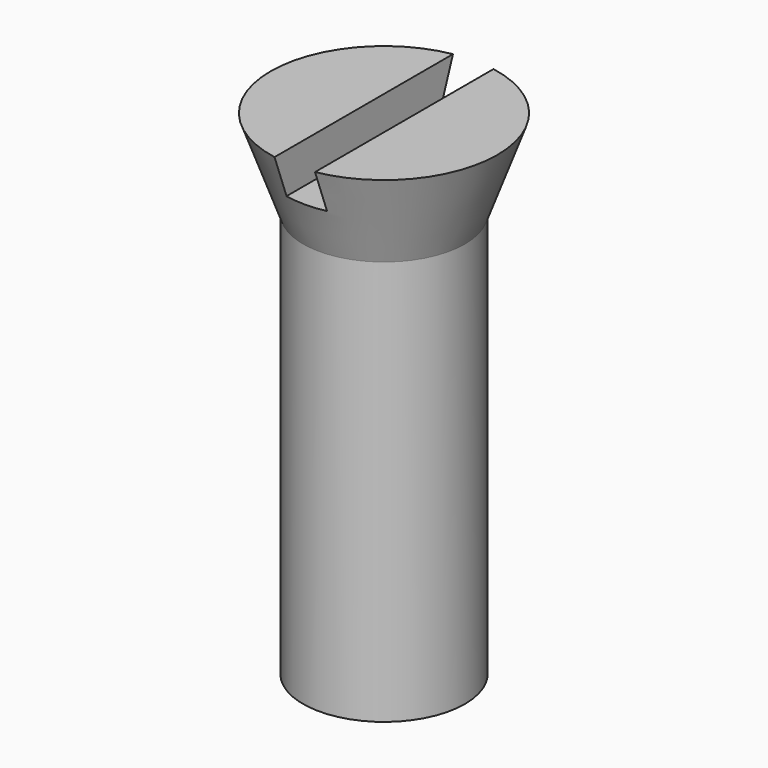
from build123d import *

# Parameters (mm, degrees)
BOX_W          = 1
BOX_H          = 6
BOX_DEPTH      = 2
CYLINDER_R     = 2
CYLINDER_DEPTH = 10


with BuildPart() as obj1:
    # Box → Box (new body)
    with BuildSketch(Plane(origin=(-0.5, -3, 11.2), x_dir=(1, 0, 0), z_dir=(0, 0, 1))):
        with Locations((0.5, 3)):
            Rectangle(BOX_W, BOX_H)
    extrude(amount=BOX_DEPTH)


with BuildPart() as cabeza_final:
    # Cone → Cone (revolve)
    with BuildSketch(Plane(origin=(0, 0, 10), x_dir=(1, 0, 0), z_dir=(0, -1, 0))):
        Polygon((0, 0), (2, 0), (2.8, 2.2), (0, 2.2), align=None)
    revolve(axis=Axis((0, 0, 10), (0, 0, 1)))

    # Cut: cut obj1
    add(obj1.part, mode=Mode.SUBTRACT)


with BuildPart() as tornillo_sin_rosca:
    # Cylinder → Cylinder (new body)
    with BuildSketch(Plane.XY):
        Circle(CYLINDER_R)
    extrude(amount=CYLINDER_DEPTH)

    # Fusion: union cabeza_final
    add(cabeza_final.part)


solid = tornillo_sin_rosca.part
